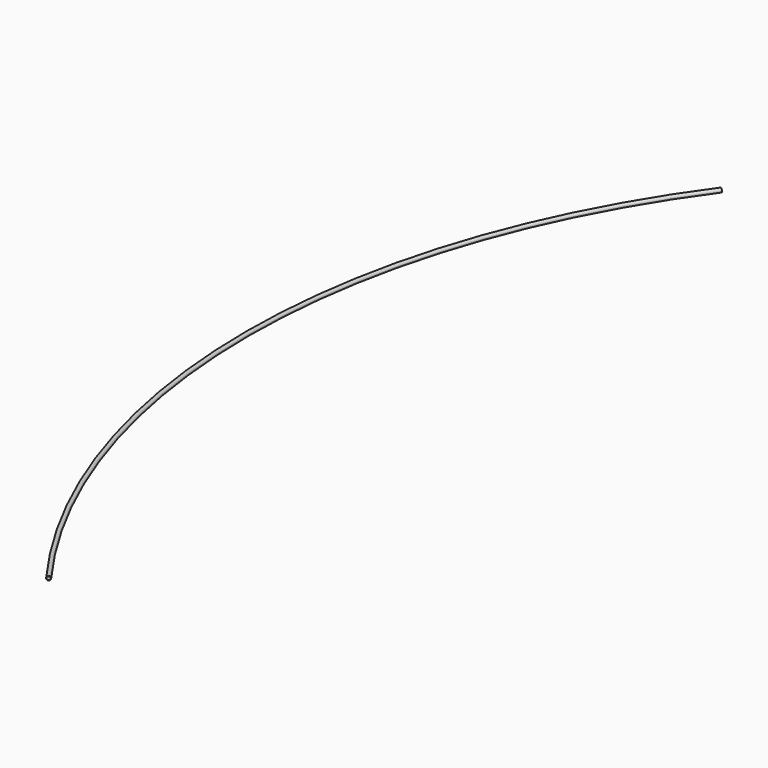
from build123d import *

# Parameters (mm, degrees)
F0_R          = 13.335
F0_R_2        = 11.227
F1_ANGLE_BACK = 36.155
F1_ANGLE      = 72.31


with BuildPart() as f1:
    # F0 (on Front) → F1 (revolve)
    with BuildSketch(Plane.XZ, mode=Mode.PRIVATE) as f1_sk:
        Circle(F0_R)
        Circle(F0_R_2, mode=Mode.SUBTRACT)
    revolve(f1_sk.sketch.rotate(Axis((4770, 0, -50), (0, 0, -1)), -F1_ANGLE_BACK), axis=Axis((4770, 0, -50), (0, 0, -1)), revolution_arc=F1_ANGLE)


solid = f1.part
